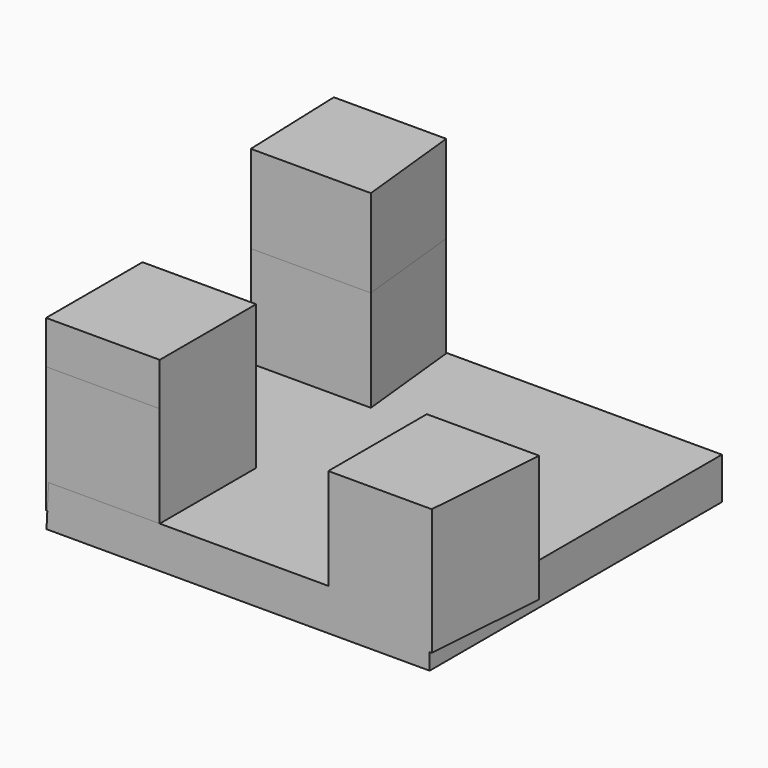
from build123d import *

# Parameters (mm, degrees)
F1_DEPTH  = 105.664
F2_W      = 32.872708
F2_H      = 34.861919
F3_DEPTH  = 36.576
F3_FACE_W = 32.872708
F3_FACE_H = 34.861918
F4_DEPTH  = 12.446
F6_DEPTH  = 35.306
F7_DEPTH  = 25.4


with BuildPart() as f1:
    # F0 (on Front) → F1 (new body)
    with BuildSketch(Plane.XZ):
        Polygon((54.78441, -29.249305), (-55.403445, -29.249305), (-56.022476, -41.320443), (54.78441, -41.320443), align=None)
    extrude(amount=-F1_DEPTH)

    # F2 (on Top) → F3 (join)
    with BuildSketch(Plane.XY):
        Polygon((57.988938, 35.600629), (25.485585, 35.600629), (25.485585, 0), (55.403445, 0), align=None)
        with Locations((-39.705801, 17.43096)):
            Rectangle(F2_W, F2_H)
    extrude(amount=-F3_DEPTH)

    # F3_face (on face) → F4 (join)
    with BuildSketch(Plane(origin=(-39.705801, 17.430959, 0), x_dir=(1, 0, 0), z_dir=(0, 0, 1))):
        Rectangle(F3_FACE_W, F3_FACE_H)
    extrude(amount=F4_DEPTH)

    # F5 (on Top) → F6 (join)
    with BuildSketch(Plane.XY):
        Polygon((-24.746871, 105.408974), (-57.250224, 105.408974), (-56.142155, 74.01368), (-21.422666, 74.01368), align=None)
    extrude(amount=-F6_DEPTH)

    # F6_face (on face) → F7 (join)
    with BuildSketch(Plane(origin=(-39.878302, 89.538826, 0), x_dir=(1, 0, 0), z_dir=(0, 0, 1))):
        Polygon((15.131432, 15.870148), (-17.371922, 15.870148), (-16.263853, -15.525145), (18.455637, -15.525145), align=None)
    extrude(amount=F7_DEPTH)


solid = f1.part
